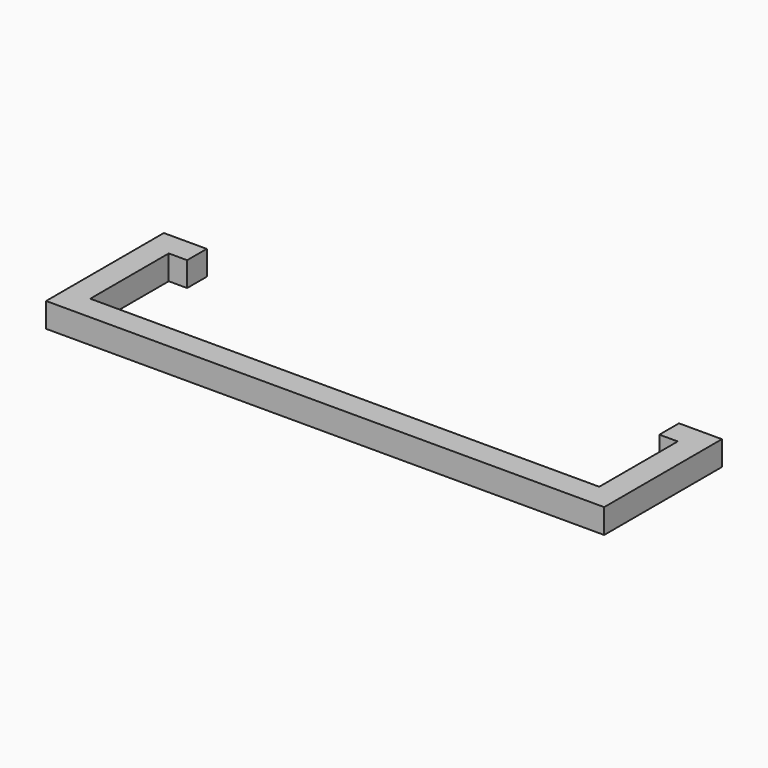
from build123d import *

# Parameters (mm, degrees)
F0_W     = 2
F0_H     = 8
F0_H_2   = 2
F0_W_2   = 41.5
F0_W_3   = 1.5
F1_DEPTH = 2


with BuildPart() as f1:
    # F0 (on Top) → F1 (new body)
    with BuildSketch(Plane.XY):
        with Locations((-19.448788, 4)):
            Rectangle(F0_W, F0_H)
        with Locations((-19.448788, -1)):
            Rectangle(F0_W, F0_H_2)
        with Locations((2.301212, -1)):
            Rectangle(F0_W_2, F0_H_2)
        with Locations((-19.448788, 9)):
            Rectangle(F0_W, F0_H_2)
        with Locations((24.051212, 4)):
            Rectangle(F0_W, F0_H)
        with Locations((24.051212, -1)):
            Rectangle(F0_W, F0_H_2)
        with Locations((-17.698788, 9)):
            Rectangle(F0_W_3, F0_H_2)
        with Locations((22.301212, 9)):
            Rectangle(F0_W_3, F0_H_2)
        with Locations((24.051212, 9)):
            Rectangle(F0_W, F0_H_2)
    extrude(amount=F1_DEPTH)


solid = f1.part
